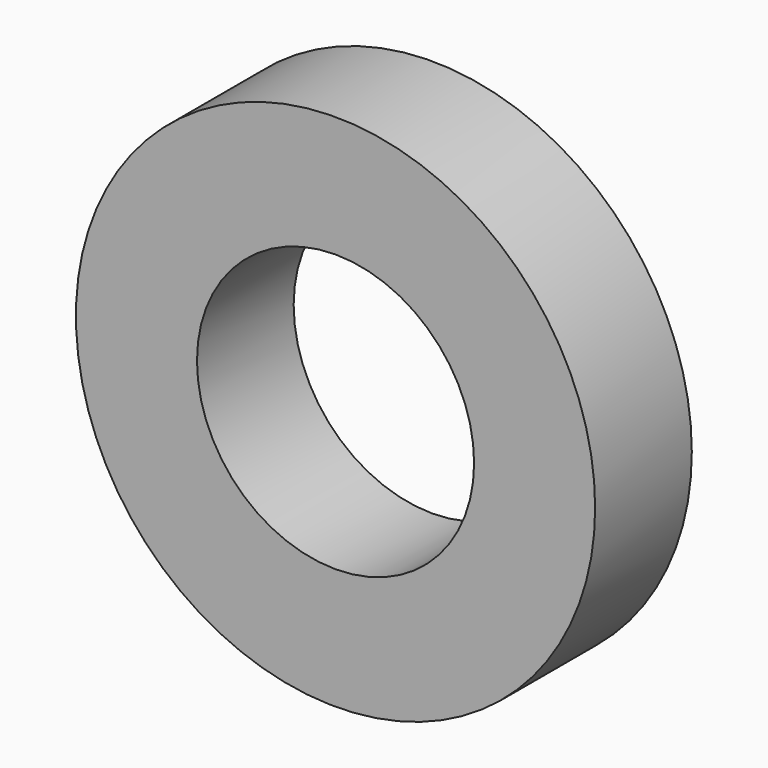
from build123d import *

# Parameters (mm, degrees)
F1_R     = 54.568636
F1_R_2   = 29.123039
F2_DEPTH = 25.4


with BuildPart() as f2:
    # F1 (on face) → F2 (new body)
    with BuildSketch(Plane.XZ):
        Circle(F1_R)
        Circle(F1_R_2, mode=Mode.SUBTRACT)
    extrude(amount=F2_DEPTH)


solid = f2.part
